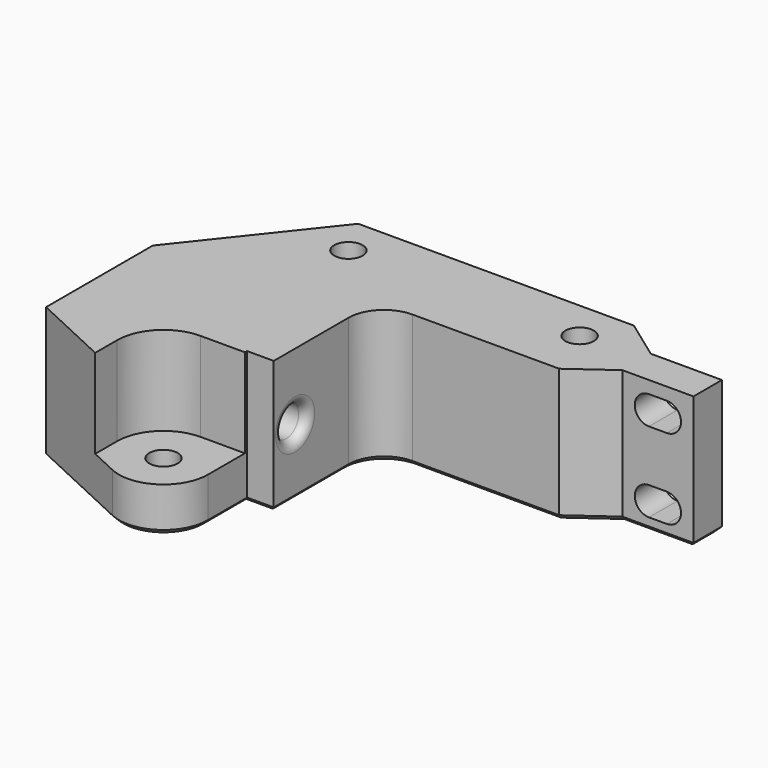
from build123d import *

# Parameters (mm, degrees)
BOX_W           = 10.4
BOX_H           = 10.4
BOX_DEPTH       = 10
CYLINDER_R      = 5.2
CYLINDER_DEPTH  = 10
BOX001_W        = 10.4
BOX001_H        = 10
BOX001_DEPTH    = 10
SKETCH001_R     = 1.6
PAD_DEPTH       = 20
SKETCH_R        = 3
PAD001_DEPTH    = 3
PAD002_DEPTH    = 15
SKETCH003_R     = 4.9
POCKET_DEPTH    = 7.5
SKETCH004_R     = 1.75
POCKET001_DEPTH = 47.501
POCKET002_DEPTH = 5
FILLET_R        = 4
FILLET001_R     = 1
CHAMFER_SIZE    = 0.5


with BuildPart() as cube:
    # Box → Box (new body)
    with BuildSketch(Plane(origin=(-13, -18.2, 5), x_dir=(1, 0, 0), z_dir=(0, 0, 1))):
        with Locations((5.2, 5.2)):
            Rectangle(BOX_W, BOX_H)
    extrude(amount=BOX_DEPTH)


with BuildPart() as cylinder:
    # Cylinder → Cylinder (new body)
    with BuildSketch(Plane(origin=(-13, -13, 5), x_dir=(1, 0, 0), z_dir=(0, 0, 1))):
        Circle(CYLINDER_R)
    extrude(amount=CYLINDER_DEPTH)


with BuildPart() as obj1:
    # Box001 → Box001 (new body)
    with BuildSketch(Plane(origin=(-18.2, -23, 5), x_dir=(1, 0, 0), z_dir=(0, 0, 1))):
        with Locations((5.2, 5)):
            Rectangle(BOX001_W, BOX001_H)
    extrude(amount=BOX001_DEPTH)

    # Fusion001: union Cube, Cylinder
    add(cube.part)
    add(cylinder.part)


with BuildPart() as cuerpo_tornillos:
    # Sketch001 → Pad (new body)
    with BuildSketch(Plane.XY.offset(3.25)):
        with Locations((-13, 13)):
            Circle(SKETCH001_R)
        with Locations((13, 13)):
            Circle(SKETCH001_R)
        with Locations((-13, -13)):
            Circle(SKETCH001_R)
    extrude(amount=PAD_DEPTH)


with BuildPart() as tornillos:
    # Sketch → Pad001 (new body)
    with BuildSketch(Plane.XY):
        with Locations((-13, 13)):
            Circle(SKETCH_R)
        with Locations((13, 13)):
            Circle(SKETCH_R)
        with Locations((-13, -13)):
            Circle(SKETCH_R)
    extrude(amount=PAD001_DEPTH)

    # Fusion: union cuerpo_tornillos
    add(cuerpo_tornillos.part)


with BuildPart() as chamfer_body:
    # Sketch002 → Pad002 (new body)
    with BuildSketch(Plane.XY):
        with BuildLine():
            Line((-15.109533, -17.533197), (-27, -12))
            Line((-27, -12), (-27, 3))
            Line((-27, 3), (-15.5, 17.5))
            Line((-15.5, 17.5), (15.5, 17.5))
            Line((15.5, 17.5), (20, 14.25))
            Line((20, 14.25), (28, 14.25))
            Line((28, 14.25), (28, 10.25))
            Line((28, 10.25), (20, 10.25))
            Line((20, 10.25), (15.5, 7))
            Line((15.5, 7), (-5, 7))
            Line((-5, 7), (-5, -7.5))
            Line((-5, -7.5), (-8, -7.5))
            Line((-8, -7.5), (-8, -13))
            ThreePointArc((-15.109533, -17.533197), (-10.311847, -17.215902), (-8, -13))
        make_face()
    extrude(amount=PAD002_DEPTH)

    # Sketch003 → Pocket (cut)
    with BuildSketch(Plane(origin=(-27, 0, 0), x_dir=(0, -1, 0), z_dir=(-1, 0, 0))):
        with Locations((4.5, 7.5)):
            Circle(SKETCH003_R)
    extrude(amount=-POCKET_DEPTH, mode=Mode.SUBTRACT)

    # Sketch004 → Pocket001 (cut, through all)
    with BuildSketch(Plane(origin=(-19.5, 0, 0), x_dir=(0, -1, 0), z_dir=(-1, 0, 0))):
        with Locations((4.5, 7.5)):
            Circle(SKETCH004_R)
    extrude(amount=-POCKET001_DEPTH, mode=Mode.SUBTRACT)

    # Sketch005 → Pocket002 (cut)
    with BuildSketch(Plane(origin=(0, 14.25, 0), x_dir=(-1, 0, 0), z_dir=(0, 1, 0))):
        with BuildLine():
            ThreePointArc((-25, 13.6), (-26.6, 12), (-25, 10.4))
            Line((-25, 10.4), (-23, 10.4))
            ThreePointArc((-23, 10.4), (-21.4, 12), (-23, 13.6))
            Line((-25, 13.6), (-23, 13.6))
        make_face()
        with BuildLine():
            ThreePointArc((-25, 4.6), (-26.6, 3), (-25, 1.4))
            Line((-25, 1.4), (-23, 1.4))
            ThreePointArc((-23, 1.4), (-21.4, 3), (-23, 4.6))
            Line((-25, 4.6), (-23, 4.6))
        make_face()
    extrude(amount=-POCKET002_DEPTH, mode=Mode.SUBTRACT)

    # Cut: cut tornillos
    add(tornillos.part, mode=Mode.SUBTRACT)

    # Cut001: cut obj1
    add(obj1.part, mode=Mode.SUBTRACT)

    # Fillet
    fillet_edges = [chamfer_body.edges().sort_by_distance(p)[0] for p in [
        (-5, 7, 7.5),
    ]]
    fillet(fillet_edges, radius=FILLET_R)

    # Fillet001
    fillet001_edges = [chamfer_body.edges().sort_by_distance(p)[0] for p in [
        (-5, -2.75, 7.5),
    ]]
    fillet(fillet001_edges, radius=FILLET001_R)

    # Chamfer
    chamfer_edges = [chamfer_body.edges().sort_by_distance(p)[0] for p in [
        (0, 17.5, 0),
        (-21.25, 10.25, 0),
        (-27, -4.5, 0),
        (-21.054766, -14.766598, 0),
        (-10.311847, -17.215902, 0),
        (-8, -10.25, 0),
        (-6.5, -7.5, 0),
        (-5, -2.25, 0),
        (-3.828427, 5.828427, 0),
        (7.25, 7, 0),
        (17.75, 8.625, 0),
        (24, 10.25, 0),
        (28, 12.25, 0),
        (24, 14.25, 0),
        (17.75, 15.875, 0),
    ]]
    chamfer(chamfer_edges, length=CHAMFER_SIZE)


solid = chamfer_body.part
